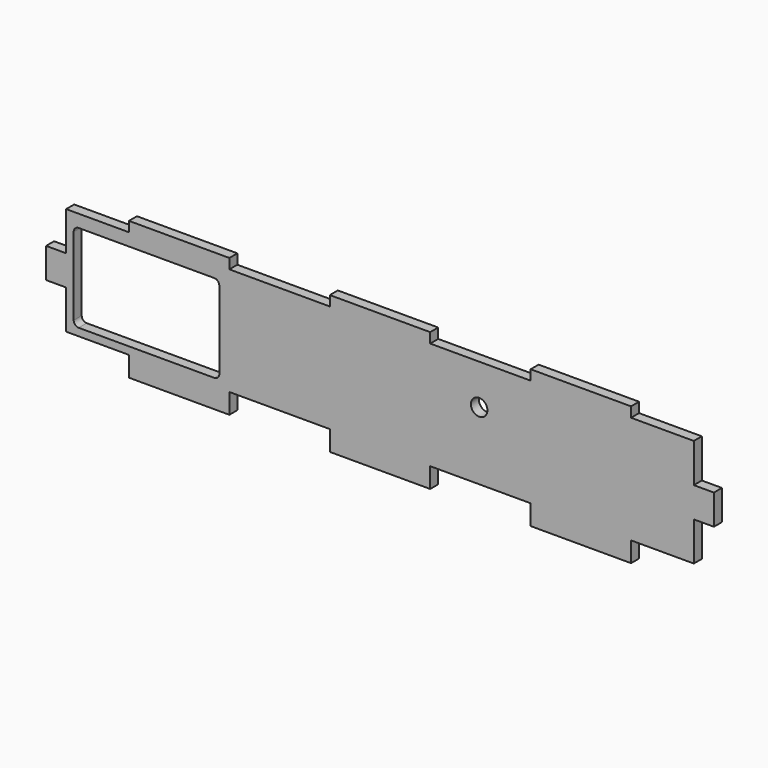
from build123d import *

# Parameters (mm, degrees)
SKETCH005_W     = 266
SKETCH005_H     = 55
PAD002_DEPTH    = 4
SKETCH023_W     = 40
SKETCH023_H     = 30
POCKET006_DEPTH = 4.001
POCKET013_DEPTH = 4.001
SKETCH039_R     = 3.3
HOLE004_DEPTH   = 4.001


with BuildPart() as part:
    # Sketch005 (on DatumPlane) → Pad002 (new body)
    with BuildSketch(Plane.XZ.offset(-83)):
        with Locations((0, 19.5)):
            Rectangle(SKETCH005_W, SKETCH005_H)
    extrude(amount=PAD002_DEPTH)

    # Sketch023 (on Face5 of Pad002) → Pocket006 (cut, through all)
    with BuildSketch(Plane(origin=(0, 83, 0), x_dir=(1, 0, 0), z_dir=(0, 1, 0))):
        Polygon((-145, 30), (-100, 30), (-100, 0), (-125, 0), (-125, -15.5), (-155, -15.5), (-155, 4.5), (-145, 4.5), align=None)
        with Locations((-40, 15)):
            Rectangle(SKETCH023_W, SKETCH023_H)
        with Locations((40, 15)):
            Rectangle(SKETCH023_W, SKETCH023_H)
        Polygon((100, 30), (145, 30), (145, 4.5), (155, 4.5), (155, -15.5), (125, -15.5), (125, 0), (100, 0), align=None)
        Polygon((-125, -43), (-100, -43), (-100, -73), (-145, -73), (-145, -47.5), (-155, -47.5), (-155, -27.5), (-125, -27.5), align=None)
        with Locations((-40, -58)):
            Rectangle(SKETCH023_W, SKETCH023_H)
        with Locations((40, -58)):
            Rectangle(SKETCH023_W, SKETCH023_H)
        Polygon((100, -43), (125, -43), (125, -27.5), (155, -27.5), (155, -47.5), (145, -47.5), (145, -73), (100, -73), align=None)
    extrude(amount=-POCKET006_DEPTH, mode=Mode.SUBTRACT)

    # Sketch030 (on Face2 of Pocket006) → Pocket013 (cut, through all)
    with BuildSketch(Plane(origin=(0, 83, 0), x_dir=(1, 0, 0), z_dir=(0, 1, 0))):
        with BuildLine():
            Line((-120, -3), (-66, -3))
            ThreePointArc((-64, -5), (-64.585786, -3.585786), (-66, -3))
            Line((-64, -5), (-64, -36))
            ThreePointArc((-66, -38), (-64.585786, -37.414214), (-64, -36))
            Line((-66, -38), (-120, -38))
            ThreePointArc((-122, -36), (-121.414214, -37.414214), (-120, -38))
            Line((-122, -36), (-122, -5))
            ThreePointArc((-120, -3), (-121.414214, -3.585786), (-122, -5))
        make_face()
    extrude(amount=-POCKET013_DEPTH, mode=Mode.SUBTRACT)

    # Sketch039 (on Face2 of Pocket013) → Hole004 (cut, through all)
    with BuildSketch(Plane(origin=(0, 83, 0), x_dir=(1, 0, 0), z_dir=(0, 1, 0))):
        with Locations((39.5, -27)):
            Circle(SKETCH039_R)
    extrude(amount=-HOLE004_DEPTH, mode=Mode.SUBTRACT)


solid = part.part
